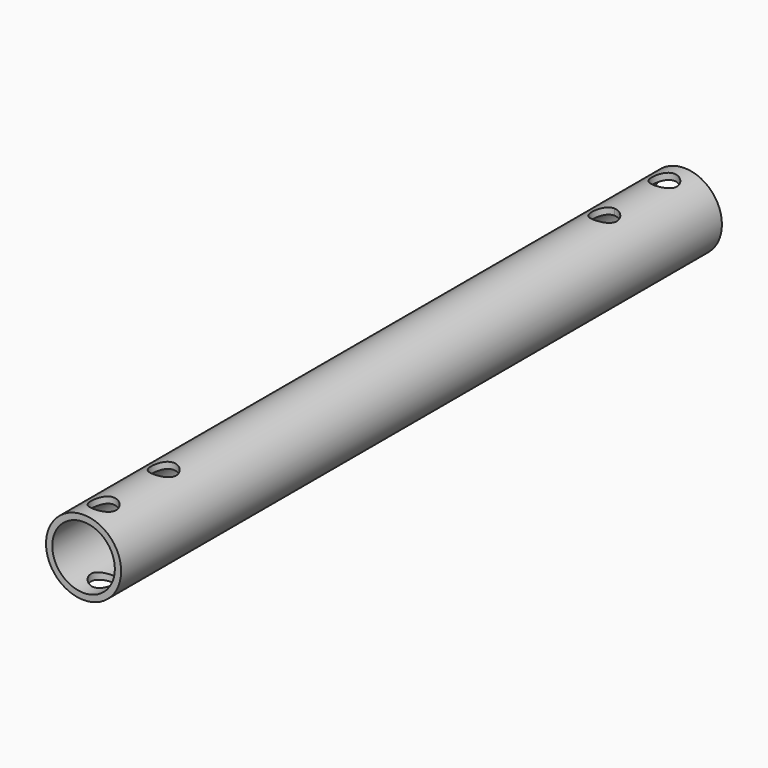
from build123d import *

# Parameters (mm, degrees)
F0_R     = 15
F0_R_2   = 12.5
F1_DEPTH = 300
F2_R     = 5
F3_DEPTH = 49


with BuildPart() as f1:
    # F0 (on Front) → F1 (new body)
    with BuildSketch(Plane.XZ):
        Circle(F0_R)
        Circle(F0_R_2, mode=Mode.SUBTRACT)
    extrude(amount=F1_DEPTH)

    # F2 (on Top) → F3 (cut, symmetric)
    with BuildSketch(Plane.XY):
        with Locations((0, -290)):
            Circle(F2_R)
        with BuildLine():
            ThreePointArc((0, -15), (3.535534, -13.535534), (5, -10))
            ThreePointArc((5, -10), (-3.535534, -6.464466), (0, -15))
        make_face()
        with BuildLine():
            ThreePointArc((5, -40), (3.535534, -36.464466), (0, -35))
            ThreePointArc((0, -35), (-3.535534, -43.535534), (5, -40))
        make_face()
        with Locations((0, -260)):
            Circle(F2_R)
    extrude(amount=F3_DEPTH, both=True, mode=Mode.SUBTRACT)


solid = f1.part
